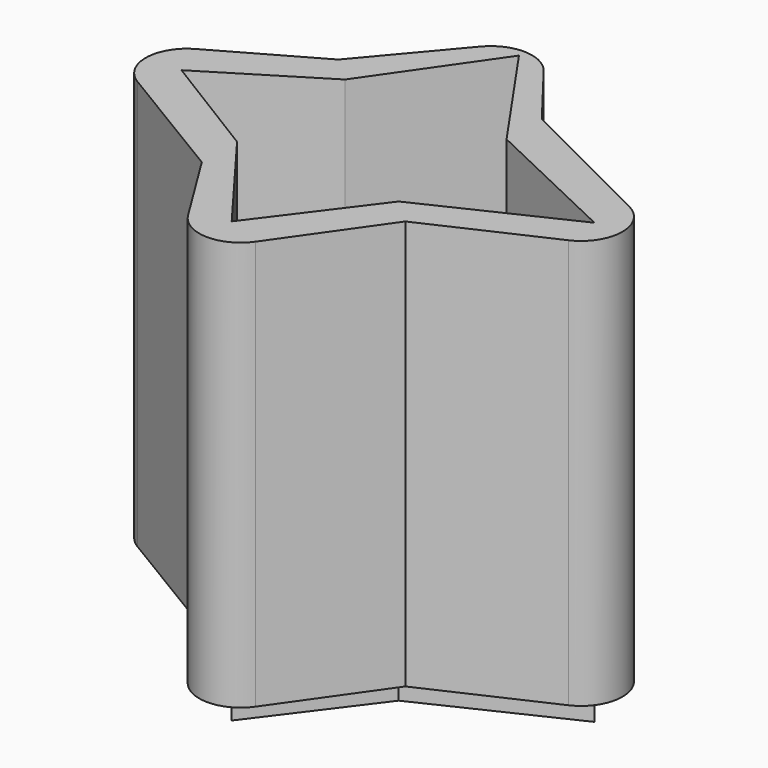
from build123d import *

# Parameters (mm, degrees)
F1_DEPTH = 17.272
F2_DEPTH = 19.812
F3_R     = 3.483258


with BuildPart() as f1:
    # F0 (on Top) → F1 (new body, symmetric)
    with BuildSketch(Plane.XY):
        Polygon((0, 18.248798), (-8.939255, 7.643078), (-22.423375, 0), (-6.818111, -9.410581), (0, -20.386325), (8.939255, -7.643078), (25.605388, 0), (6.818111, 9.410581), align=None)
        Polygon((-16.059943, 0), (-6.818111, 5.689826), (0, 15.521614), (6.818111, 5.689826), (18.787423, 0), (6.818111, -5.689826), (0, -14.780444), (-6.818111, -5.689826), align=None, mode=Mode.SUBTRACT)
    extrude(amount=F1_DEPTH, both=True)

    # F0 (on Top) → F2 (join)
    with BuildSketch(Plane.XY):
        Polygon((0, 15.521614), (-6.818111, 5.689826), (-16.059943, 0), (-6.818111, -5.689826), (0, -14.780444), (6.818111, -5.689826), (18.787423, 0), (6.818111, 5.689826), align=None)
    extrude(amount=-F2_DEPTH)

    # F3
    f3_edges = [f1.edges().sort_by_distance(p)[0] for p in [
        (0, -20.386325, 0),
        (-22.423375, 0, 0),
        (0, 18.248798, 0),
        (25.605388, 0, 0),
    ]]
    fillet(f3_edges, radius=F3_R)


solid = f1.part
